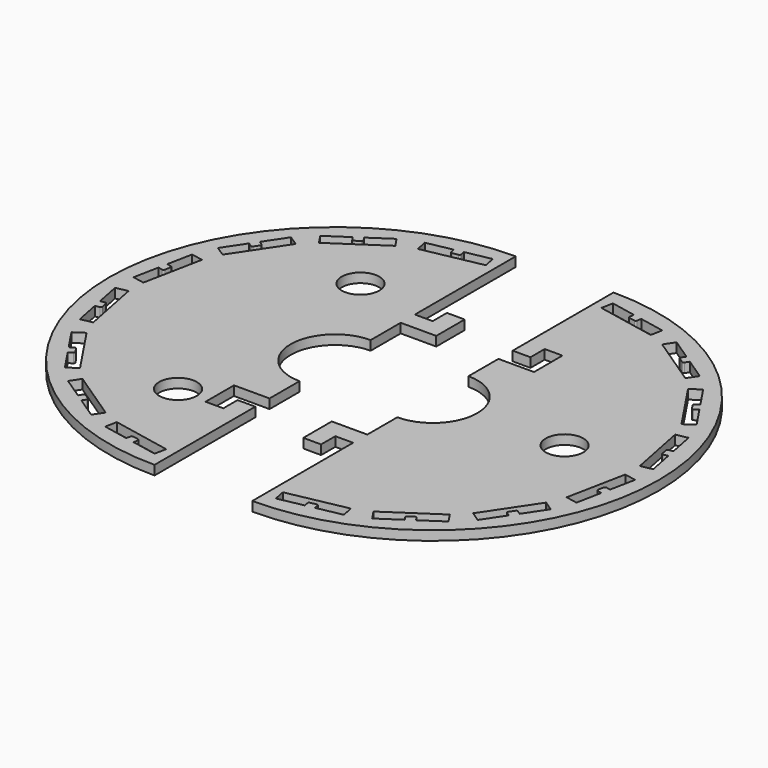
from build123d import *

# Parameters (mm, degrees)
F0_R     = 6.35
F1_DEPTH = 3.175
F2_DEPTH = 3.175


with BuildPart() as f1:
    # F0 (on Top) → F1 (new body)
    with BuildSketch(Plane.XY):
        with BuildLine():
            Line((0, -33.660648), (0, -76.2))
            ThreePointArc((0, -76.2), (76.2, 0), (0, 76.2))
            Line((0, 76.2), (0, 33.660648))
            Line((0, 33.660648), (6, 33.660648))
            Line((6, 33.660648), (6, 39.660648))
            Line((6, 39.660648), (12, 39.660648))
            Line((12, 39.660648), (12, 27.660648))
            Line((12, 27.660648), (0, 27.660648))
            Line((0, 27.660648), (0, 15))
            ThreePointArc((0, 15), (15, 0), (0, -15))
            Line((0, -15), (0, -27.660648))
            Line((0, -27.660648), (-12, -27.660648))
            Line((-12, -27.660648), (-12, -39.660648))
            Line((-12, -39.660648), (-6, -39.660648))
            Line((-6, -39.660648), (-6, -33.660648))
            Line((-6, -33.660648), (0, -33.660648))
        make_face()
        with BuildLine():
            Line((3.187541, -67.28316), (22.994975, -63.343216))
            Line((22.994975, -63.343216), (23.775336, -67.266357))
            Line((23.775336, -67.266357), (15.342797, -68.943693))
            Line((15.342797, -68.943693), (15.050161, -67.472515))
            ThreePointArc((15.050161, -67.472515), (14.837554, -67.154326), (14.462224, -67.079668))
            Line((14.462224, -67.079668), (12.500653, -67.469849))
            ThreePointArc((12.500653, -67.469849), (12.182463, -67.682456), (12.107806, -68.057786))
            Line((12.107806, -68.057786), (12.400441, -69.528964))
            Line((12.400441, -69.528964), (3.967902, -71.206301))
            Line((3.967902, -71.206301), (3.187541, -67.28316))
        make_face(mode=Mode.SUBTRACT)
        with BuildLine():
            Line((28.693054, -60.941715), (45.484986, -49.721705))
            Line((45.484986, -49.721705), (47.707267, -53.047583))
            Line((47.707267, -53.047583), (40.558505, -57.824233))
            Line((40.558505, -57.824233), (39.72515, -56.577029))
            ThreePointArc((39.72515, -56.577029), (39.40696, -56.364421), (39.03163, -56.439079))
            Line((39.03163, -56.439079), (37.368691, -57.550219))
            ThreePointArc((37.368691, -57.550219), (37.156083, -57.868409), (37.230741, -58.243739))
            Line((37.230741, -58.243739), (38.064096, -59.490944))
            Line((38.064096, -59.490944), (30.915335, -64.267593))
            Line((30.915335, -64.267593), (28.693054, -60.941715))
        make_face(mode=Mode.SUBTRACT)
        with BuildLine():
            Line((49.83031, -45.322447), (61.05032, -28.530515))
            Line((61.05032, -28.530515), (64.376199, -30.752796))
            Line((64.376199, -30.752796), (59.599549, -37.901557))
            Line((59.599549, -37.901557), (58.352344, -37.068202))
            ThreePointArc((58.352344, -37.068202), (57.977014, -36.993544), (57.658825, -37.206152))
            Line((57.658825, -37.206152), (56.547684, -38.869091))
            ThreePointArc((56.547684, -38.869091), (56.473026, -39.244421), (56.685634, -39.562611))
            Line((56.685634, -39.562611), (57.932838, -40.395966))
            Line((57.932838, -40.395966), (53.156188, -47.544728))
            Line((53.156188, -47.544728), (49.83031, -45.322447))
        make_face(mode=Mode.SUBTRACT)
        with BuildLine():
            Line((63.381353, -22.803247), (67.321297, -2.995813))
            Line((67.321297, -2.995813), (71.244438, -3.776174))
            Line((71.244438, -3.776174), (69.567101, -12.208713))
            Line((69.567101, -12.208713), (68.095923, -11.916078))
            ThreePointArc((68.095923, -11.916078), (67.720593, -11.990735), (67.507986, -12.308925))
            Line((67.507986, -12.308925), (67.117805, -14.270496))
            ThreePointArc((67.117805, -14.270496), (67.192463, -14.645826), (67.510653, -14.858434))
            Line((67.510653, -14.858434), (68.98183, -15.151069))
            Line((68.98183, -15.151069), (67.304494, -23.583608))
            Line((67.304494, -23.583608), (63.381353, -22.803247))
        make_face(mode=Mode.SUBTRACT)
        with Locations((44.45, 0)):
            Circle(F0_R, mode=Mode.SUBTRACT)
        with BuildLine():
            Line((67.28316, 3.187541), (63.343216, 22.994975))
            Line((63.343216, 22.994975), (67.266357, 23.775336))
            Line((67.266357, 23.775336), (68.943693, 15.342797))
            Line((68.943693, 15.342797), (67.472515, 15.050161))
            ThreePointArc((67.472515, 15.050161), (67.154326, 14.837554), (67.079668, 14.462224))
            Line((67.079668, 14.462224), (67.469849, 12.500653))
            ThreePointArc((67.469849, 12.500653), (67.682456, 12.182463), (68.057786, 12.107806))
            Line((68.057786, 12.107806), (69.528964, 12.400441))
            Line((69.528964, 12.400441), (71.206301, 3.967902))
            Line((71.206301, 3.967902), (67.28316, 3.187541))
        make_face(mode=Mode.SUBTRACT)
        with BuildLine():
            Line((22.803247, 63.381353), (2.995813, 67.321297))
            Line((2.995813, 67.321297), (3.776174, 71.244438))
            Line((3.776174, 71.244438), (12.208713, 69.567101))
            Line((12.208713, 69.567101), (11.916078, 68.095923))
            ThreePointArc((11.916078, 68.095923), (11.990735, 67.720593), (12.308925, 67.507986))
            Line((12.308925, 67.507986), (14.270496, 67.117805))
            ThreePointArc((14.270496, 67.117805), (14.645826, 67.192463), (14.858434, 67.510653))
            Line((14.858434, 67.510653), (15.151069, 68.98183))
            Line((15.151069, 68.98183), (23.583608, 67.304494))
            Line((23.583608, 67.304494), (22.803247, 63.381353))
        make_face(mode=Mode.SUBTRACT)
        with BuildLine():
            Line((45.322447, 49.83031), (28.530515, 61.05032))
            Line((28.530515, 61.05032), (30.752796, 64.376199))
            Line((30.752796, 64.376199), (37.901557, 59.599549))
            Line((37.901557, 59.599549), (37.068202, 58.352344))
            ThreePointArc((37.068202, 58.352344), (36.993544, 57.977014), (37.206152, 57.658825))
            Line((37.206152, 57.658825), (38.869091, 56.547684))
            ThreePointArc((38.869091, 56.547684), (39.244421, 56.473026), (39.562611, 56.685634))
            Line((39.562611, 56.685634), (40.395966, 57.932838))
            Line((40.395966, 57.932838), (47.544728, 53.156188))
            Line((47.544728, 53.156188), (45.322447, 49.83031))
        make_face(mode=Mode.SUBTRACT)
        with BuildLine():
            Line((60.941715, 28.693054), (49.721705, 45.484986))
            Line((49.721705, 45.484986), (53.047583, 47.707267))
            Line((53.047583, 47.707267), (57.824233, 40.558505))
            Line((57.824233, 40.558505), (56.577029, 39.72515))
            ThreePointArc((56.577029, 39.72515), (56.364421, 39.40696), (56.439079, 39.03163))
            Line((56.439079, 39.03163), (57.550219, 37.368691))
            ThreePointArc((57.550219, 37.368691), (57.868409, 37.156083), (58.243739, 37.230741))
            Line((58.243739, 37.230741), (59.490944, 38.064096))
            Line((59.490944, 38.064096), (64.267593, 30.915335))
            Line((64.267593, 30.915335), (60.941715, 28.693054))
        make_face(mode=Mode.SUBTRACT)
    extrude(amount=F1_DEPTH)


with BuildPart() as f2:
    # F0 (on Top) → F2 (new body)
    with BuildSketch(Plane.XY):
        with BuildLine():
            Line((-27.000001, 33.660648), (-33.000001, 33.660648))
            Line((-33.000001, 33.660648), (-33.000001, 76.2))
            ThreePointArc((-33.000001, 76.2), (-109.200001, 0), (-33.000001, -76.2))
            Line((-33.000001, -76.2), (-33.000001, -33.660648))
            Line((-33.000001, -33.660648), (-39.000001, -33.660648))
            Line((-39.000001, -33.660648), (-39.000001, -39.660648))
            Line((-39.000001, -39.660648), (-45.000001, -39.660648))
            Line((-45.000001, -39.660648), (-45.000001, -27.660648))
            Line((-45.000001, -27.660648), (-33.000001, -27.660648))
            Line((-33.000001, -27.660648), (-33.000001, -15))
            ThreePointArc((-33.000001, -15), (-48.000001, 0), (-33.000001, 15))
            Line((-33.000001, 15), (-33.000001, 27.660648))
            Line((-33.000001, 27.660648), (-21.000001, 27.660648))
            Line((-21.000001, 27.660648), (-21.000001, 39.660648))
            Line((-21.000001, 39.660648), (-27.000001, 39.660648))
            Line((-27.000001, 39.660648), (-27.000001, 33.660648))
        make_face()
        with BuildLine():
            Line((-71.064097, -59.490944), (-70.230742, -58.243739))
            ThreePointArc((-70.230742, -58.243739), (-70.156084, -57.868409), (-70.368692, -57.550219))
            Line((-70.368692, -57.550219), (-72.031631, -56.439079))
            ThreePointArc((-72.031631, -56.439079), (-72.406961, -56.364421), (-72.725151, -56.577029))
            Line((-72.725151, -56.577029), (-73.558506, -57.824233))
            Line((-73.558506, -57.824233), (-80.707267, -53.047583))
            Line((-80.707267, -53.047583), (-78.484987, -49.721705))
            Line((-78.484987, -49.721705), (-61.693055, -60.941715))
            Line((-61.693055, -60.941715), (-63.915336, -64.267593))
            Line((-63.915336, -64.267593), (-71.064097, -59.490944))
        make_face(mode=Mode.SUBTRACT)
        with BuildLine():
            ThreePointArc((-47.462224, -67.079668), (-47.837555, -67.154326), (-48.050162, -67.472515))
            Line((-48.050162, -67.472515), (-48.342798, -68.943693))
            Line((-48.342798, -68.943693), (-56.775337, -67.266357))
            Line((-56.775337, -67.266357), (-55.994975, -63.343216))
            Line((-55.994975, -63.343216), (-36.187541, -67.28316))
            Line((-36.187541, -67.28316), (-36.967903, -71.206301))
            Line((-36.967903, -71.206301), (-45.400442, -69.528964))
            Line((-45.400442, -69.528964), (-45.107806, -68.057786))
            ThreePointArc((-45.107806, -68.057786), (-45.182464, -67.682456), (-45.500654, -67.469849))
            Line((-45.500654, -67.469849), (-47.462224, -67.079668))
        make_face(mode=Mode.SUBTRACT)
        with Locations((-55.225001, -38.494829)):
            Circle(F0_R, mode=Mode.SUBTRACT)
        with BuildLine():
            ThreePointArc((-90.658825, -37.206152), (-90.977015, -36.993544), (-91.352345, -37.068202))
            Line((-91.352345, -37.068202), (-92.59955, -37.901557))
            Line((-92.59955, -37.901557), (-97.376199, -30.752796))
            Line((-97.376199, -30.752796), (-94.050321, -28.530515))
            Line((-94.050321, -28.530515), (-82.830311, -45.322447))
            Line((-82.830311, -45.322447), (-86.156189, -47.544728))
            Line((-86.156189, -47.544728), (-90.932839, -40.395966))
            Line((-90.932839, -40.395966), (-89.685634, -39.562611))
            ThreePointArc((-89.685634, -39.562611), (-89.473027, -39.244421), (-89.547685, -38.869091))
            Line((-89.547685, -38.869091), (-90.658825, -37.206152))
        make_face(mode=Mode.SUBTRACT)
        with BuildLine():
            ThreePointArc((-100.507986, -12.308925), (-100.720594, -11.990735), (-101.095924, -11.916078))
            Line((-101.095924, -11.916078), (-102.567102, -12.208713))
            Line((-102.567102, -12.208713), (-104.244438, -3.776174))
            Line((-104.244438, -3.776174), (-100.321297, -2.995813))
            Line((-100.321297, -2.995813), (-96.381354, -22.803247))
            Line((-96.381354, -22.803247), (-100.304495, -23.583608))
            Line((-100.304495, -23.583608), (-101.981831, -15.151069))
            Line((-101.981831, -15.151069), (-100.510653, -14.858434))
            ThreePointArc((-100.510653, -14.858434), (-100.192464, -14.645826), (-100.117806, -14.270496))
            Line((-100.117806, -14.270496), (-100.507986, -12.308925))
        make_face(mode=Mode.SUBTRACT)
        with BuildLine():
            ThreePointArc((-100.079669, 14.462224), (-100.154327, 14.837554), (-100.472516, 15.050161))
            Line((-100.472516, 15.050161), (-101.943694, 15.342797))
            Line((-101.943694, 15.342797), (-100.266358, 23.775336))
            Line((-100.266358, 23.775336), (-96.343217, 22.994975))
            Line((-96.343217, 22.994975), (-100.28316, 3.187541))
            Line((-100.28316, 3.187541), (-104.206301, 3.967902))
            Line((-104.206301, 3.967902), (-102.528965, 12.400441))
            Line((-102.528965, 12.400441), (-101.057787, 12.107806))
            ThreePointArc((-101.057787, 12.107806), (-100.682457, 12.182463), (-100.469849, 12.500653))
            Line((-100.469849, 12.500653), (-100.079669, 14.462224))
        make_face(mode=Mode.SUBTRACT)
        with BuildLine():
            ThreePointArc((-89.43908, 39.03163), (-89.364422, 39.40696), (-89.577029, 39.72515))
            Line((-89.577029, 39.72515), (-90.824234, 40.558505))
            Line((-90.824234, 40.558505), (-86.047584, 47.707267))
            Line((-86.047584, 47.707267), (-82.721706, 45.484986))
            Line((-82.721706, 45.484986), (-93.941716, 28.693054))
            Line((-93.941716, 28.693054), (-97.267594, 30.915335))
            Line((-97.267594, 30.915335), (-92.490944, 38.064096))
            Line((-92.490944, 38.064096), (-91.24374, 37.230741))
            ThreePointArc((-91.24374, 37.230741), (-90.86841, 37.156083), (-90.55022, 37.368691))
            Line((-90.55022, 37.368691), (-89.43908, 39.03163))
        make_face(mode=Mode.SUBTRACT)
        with BuildLine():
            ThreePointArc((-72.562612, 56.685634), (-72.244422, 56.473026), (-71.869092, 56.547684))
            Line((-71.869092, 56.547684), (-70.206152, 57.658825))
            ThreePointArc((-70.206152, 57.658825), (-69.993545, 57.977014), (-70.068203, 58.352344))
            Line((-70.068203, 58.352344), (-70.901558, 59.599549))
            Line((-70.901558, 59.599549), (-63.752797, 64.376199))
            Line((-63.752797, 64.376199), (-61.530516, 61.05032))
            Line((-61.530516, 61.05032), (-78.322447, 49.83031))
            Line((-78.322447, 49.83031), (-80.544728, 53.156188))
            Line((-80.544728, 53.156188), (-73.395967, 57.932838))
            Line((-73.395967, 57.932838), (-72.562612, 56.685634))
        make_face(mode=Mode.SUBTRACT)
        with Locations((-55.225001, 38.494829)):
            Circle(F0_R, mode=Mode.SUBTRACT)
        with BuildLine():
            Line((-48.15107, 68.98183), (-47.858434, 67.510653))
            ThreePointArc((-47.858434, 67.510653), (-47.645827, 67.192463), (-47.270496, 67.117805))
            Line((-47.270496, 67.117805), (-45.308926, 67.507986))
            ThreePointArc((-45.308926, 67.507986), (-44.990736, 67.720593), (-44.916078, 68.095923))
            Line((-44.916078, 68.095923), (-45.208714, 69.567101))
            Line((-45.208714, 69.567101), (-36.776175, 71.244438))
            Line((-36.776175, 71.244438), (-35.995813, 67.321297))
            Line((-35.995813, 67.321297), (-55.803248, 63.381353))
            Line((-55.803248, 63.381353), (-56.583609, 67.304494))
            Line((-56.583609, 67.304494), (-48.15107, 68.98183))
        make_face(mode=Mode.SUBTRACT)
    extrude(amount=F2_DEPTH)


solid = Compound([f1.part, f2.part])
